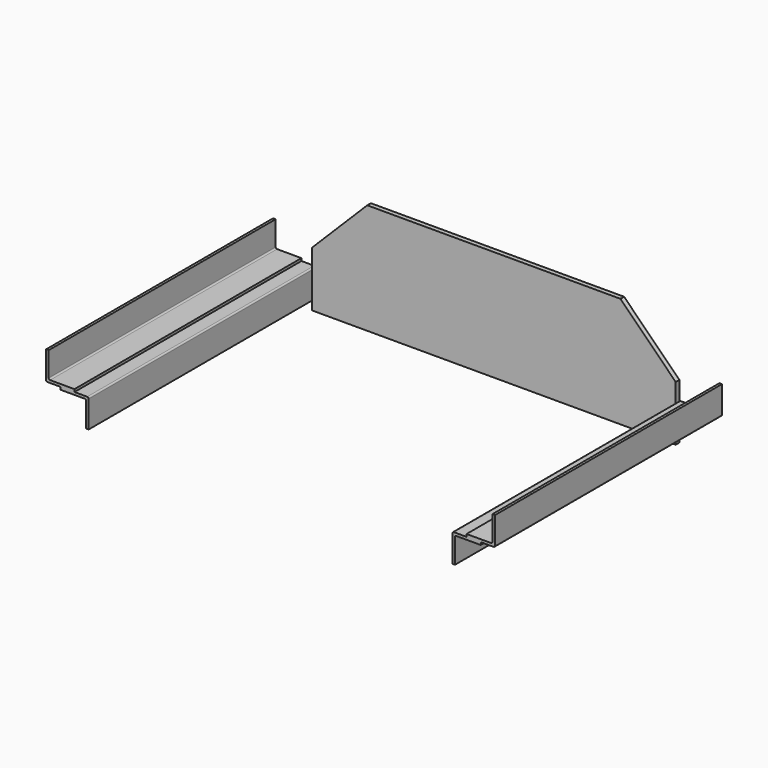
from build123d import *

# Parameters (mm, degrees)
F1_DEPTH = 250
F4_DEPTH = 8


with BuildPart() as f1:
    # F0 (on Front) → F1 (new body, symmetric)
    with BuildSketch(Plane.XZ):
        with BuildLine():
            Line((0, 50), (0, 2.5))
            ThreePointArc((0, 2.5), (0.732233, 0.732233), (2.5, 0))
            Line((2.5, 0), (25, 0))
            Line((25, 0), (50, 0))
            Line((50, 0), (50, 4.5))
            Line((50, 4.5), (7, 4.5))
            ThreePointArc((7, 4.5), (5.232233, 5.232233), (4.5, 7))
            Line((4.5, 7), (4.5, 50))
            Line((4.5, 50), (0, 50))
        make_face()
        with BuildLine():
            Line((50, 0), (25, 0))
            Line((25, 0), (25, -4.5))
            Line((25, -4.5), (68, -4.5))
            ThreePointArc((68, -4.5), (69.767767, -5.232233), (70.5, -7))
            Line((70.5, -7), (70.5, -50))
            Line((70.5, -50), (75, -50))
            Line((75, -50), (75, -2.5))
            ThreePointArc((75, -2.5), (74.267767, -0.732233), (72.5, 0))
            Line((72.5, 0), (50, 0))
        make_face()
        with BuildLine():
            Line((786.5, 50), (786.5, 7))
            ThreePointArc((786.5, 7), (785.767767, 5.232233), (784, 4.5))
            Line((784, 4.5), (741, 4.5))
            Line((741, 4.5), (741, 0))
            Line((741, 0), (766, 0))
            Line((766, 0), (788.5, 0))
            ThreePointArc((788.5, 0), (790.267767, 0.732233), (791, 2.5))
            Line((791, 2.5), (791, 50))
            Line((791, 50), (786.5, 50))
        make_face()
        with BuildLine():
            Line((766, 0), (741, 0))
            Line((741, 0), (718.5, 0))
            ThreePointArc((718.5, 0), (716.732233, -0.732233), (716, -2.5))
            Line((716, -2.5), (716, -50))
            Line((716, -50), (720.5, -50))
            Line((720.5, -50), (720.5, -7))
            ThreePointArc((720.5, -7), (721.232233, -5.232233), (723, -4.5))
            Line((723, -4.5), (766, -4.5))
            Line((766, -4.5), (766, 0))
        make_face()
    extrude(amount=F1_DEPTH, both=True)


with BuildPart() as f4:
    # F3 (on offset) → F4 (new body)
    with BuildSketch(Plane.XZ.offset(-250)):
        Polygon((75, 32.123919), (75, -65.252163), (716, -65.252163), (716, 32.123919), (618.623919, 129.5), (172.376081, 129.5), align=None)
    extrude(amount=F4_DEPTH)


solid = Compound([f1.part, f4.part])
